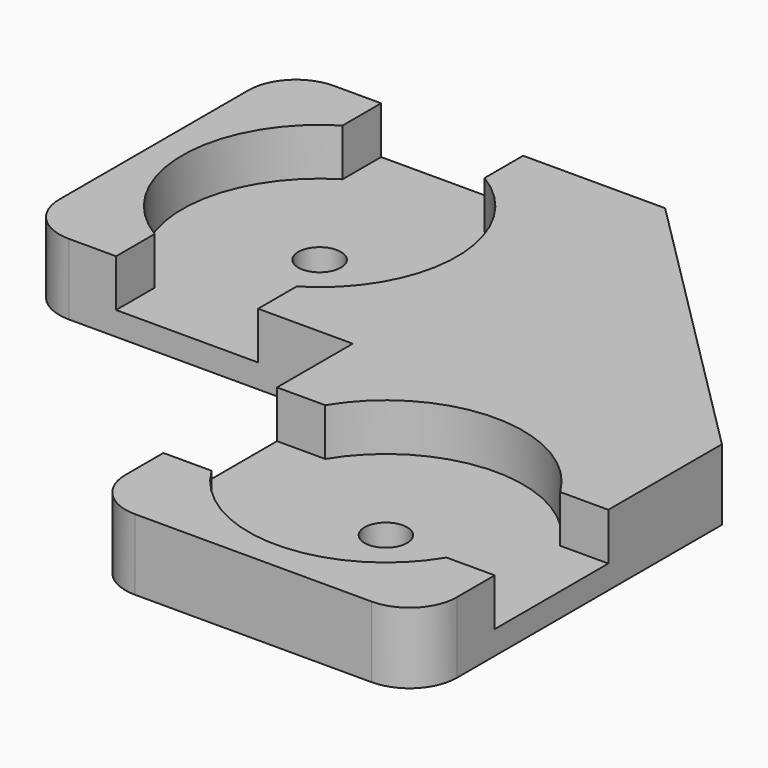
from build123d import *

# Parameters (mm, degrees)
SKETCH006_W                 = 14
SKETCH006_H                 = 14
PAD002_DEPTH                = 3
POCKET004_DEPTH             = 2
SKETCH008_R                 = 0.9
POCKET005_DEPTH             = 1.001
CLONE001007_PLACEMENT_ANGLE = 90
PAD_DEPTH                   = 3
SKETCH010_W                 = 12
SKETCH010_H                 = 12
POCKET_DEPTH                = 2
CLONE001006_PLACEMENT_ANGLE = 180
FILLET001_R                 = 2
CLONE001009_PLACEMENT_ANGLE = -90


with BuildPart() as obj1:
    # Sketch006 → Pad002 (new body)
    with BuildSketch(Plane.XY):
        Rectangle(SKETCH006_W, SKETCH006_H)
    extrude(amount=PAD002_DEPTH)

    # Sketch007 → Pocket004 (cut)
    with BuildSketch(Plane.XY.offset(3)):
        with BuildLine():
            Line((-3, 7), (-3, 4.963869))
            ThreePointArc((-3, 4.963869), (-5.8, 0), (-3, -4.963869))
            Line((-3, -7), (-3, -4.963869))
            Line((3, -7), (-3, -7))
            Line((3, -4.963869), (3, -7))
            ThreePointArc((3, -4.963869), (5.8, 0), (3, 4.963869))
            Line((3, 7), (3, 4.963869))
            Line((-3, 7), (3, 7))
        make_face()
    extrude(amount=-POCKET004_DEPTH, mode=Mode.SUBTRACT)

    # Sketch008 → Pocket005 (cut, through all)
    with BuildSketch(Plane.XY.offset(1)):
        Circle(SKETCH008_R)
    extrude(amount=-POCKET005_DEPTH, mode=Mode.SUBTRACT)


with BuildPart() as obj1_1:
    # Clone001005 placement: moved
    add(obj1.part.moved(Location((14, 0, 0))))


with BuildPart() as obj2:
    # Clone001007 base: copy of obj1
    add(obj1_1.part)


with BuildPart() as obj2_1:
    # Clone001007 placement: moved
    add(obj2.part.moved(Location((0, -28, 0))).rotate(Axis((0, -28, 0), (0, 0, 1)), CLONE001007_PLACEMENT_ANGLE))


with BuildPart() as obj3:
    # Sketch → Pad (new body)
    with BuildSketch(Plane.XY):
        Polygon((-7, -7), (-7, 7), (7, 7), (7, 5), (-5, -7), align=None)
    extrude(amount=PAD_DEPTH)

    # Sketch010 → Pocket (cut)
    with BuildSketch(Plane(origin=(0, 0, 0), x_dir=(1, 0, 0), z_dir=(0, 0, -1))):
        with Locations((1, 1)):
            Rectangle(SKETCH010_W, SKETCH010_H)
    extrude(amount=-POCKET_DEPTH, mode=Mode.SUBTRACT)


with BuildPart() as obj3_1:
    # Clone001006 placement: moved
    add(obj3.part.rotate(Axis((0, 0, 0), (0, 0, 1)), CLONE001006_PLACEMENT_ANGLE))


with BuildPart() as corner_holder_double001:
    # Fusion001 base: copy of obj1
    add(obj1_1.part)

    # Fusion001: union obj2, obj3
    add(obj2_1.part)
    add(obj3_1.part)

    # Fillet001
    fillet001_edges = [corner_holder_double001.edges().sort_by_distance(p)[0] for p in [
        (21, 7, 1.5),
        (21, -7, 1.5),
        (7, -21, 1.5),
        (-7, -21, 1.5),
    ]]
    fillet(fillet001_edges, radius=FILLET001_R)


with BuildPart() as corner_holder_double001_1:
    # Clone001008 placement: moved
    add(corner_holder_double001.part.moved(Location((-13.497608, 48.033168, 0))))


with BuildPart() as corner_holder_double001_2:
    # Clone001009 placement: moved
    add(corner_holder_double001_1.part.moved(Location((-30.900794, -30.494573, 0))).rotate(Axis((-30.900794, -30.494573, 0), (0, 0, 1)), CLONE001009_PLACEMENT_ANGLE))


solid = corner_holder_double001_2.part
